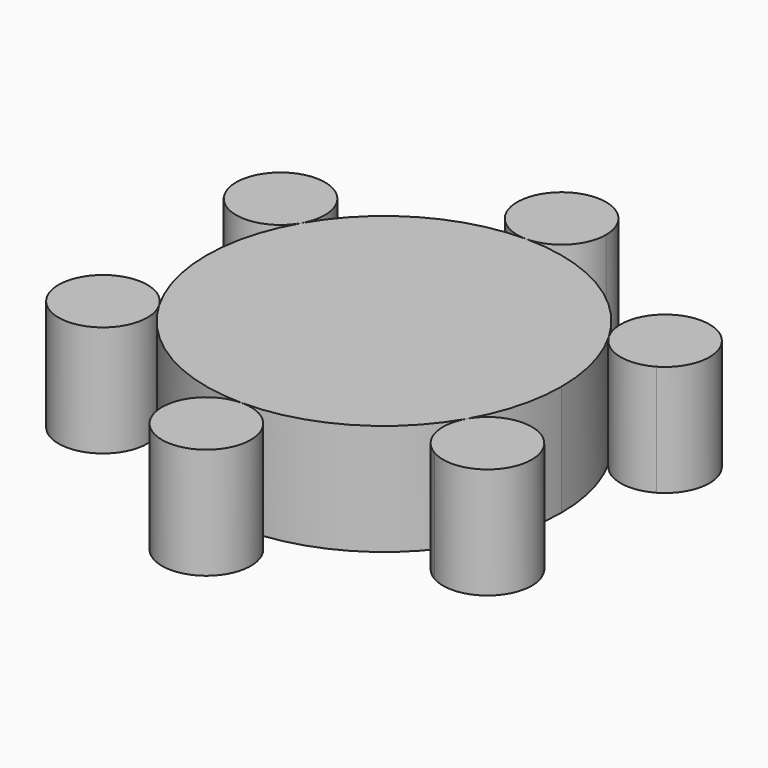
from build123d import *

# Parameters (mm, degrees)
F1_DEPTH = 25
F2_DEPTH = 25
F3_COUNT = 6


with BuildPart() as f1:
    # F0 (on Top) → F1 (new body)
    with BuildSketch(Plane.XY):
        with BuildLine():
            ThreePointArc((0, 40), (-28.284271, -28.284271), (40, 0))
            ThreePointArc((40, 0), (28.284271, 28.284271), (0, 40))
        make_face()
    extrude(amount=F1_DEPTH)


with BuildPart() as f2:
    # F0 (on Top) → F2 (new body)
    with BuildSketch(Plane.XY):
        with BuildLine():
            ThreePointArc((10, 50), (-7.071068, 57.071068), (0, 40))
            ThreePointArc((0, 40), (7.071068, 42.928932), (10, 50))
        make_face()
    extrude(amount=F2_DEPTH)


with BuildPart() as f3_1:
    # F3: instance of F2
    add(f2.part.rotate(Axis((0, 0, 25), (0, 0, -1)), 1 * 360 / F3_COUNT))


with BuildPart() as f3_2:
    # F3: instance of F2
    add(f2.part.rotate(Axis((0, 0, 25), (0, 0, -1)), 2 * 360 / F3_COUNT))


with BuildPart() as f3_3:
    # F3: instance of F2
    add(f2.part.rotate(Axis((0, 0, 25), (0, 0, -1)), 3 * 360 / F3_COUNT))


with BuildPart() as f3_4:
    # F3: instance of F2
    add(f2.part.rotate(Axis((0, 0, 25), (0, 0, -1)), 4 * 360 / F3_COUNT))


with BuildPart() as f3_5:
    # F3: instance of F2
    add(f2.part.rotate(Axis((0, 0, 25), (0, 0, -1)), 5 * 360 / F3_COUNT))


solid = Compound([f1.part, f2.part, f3_1.part, f3_2.part, f3_3.part, f3_4.part, f3_5.part])
